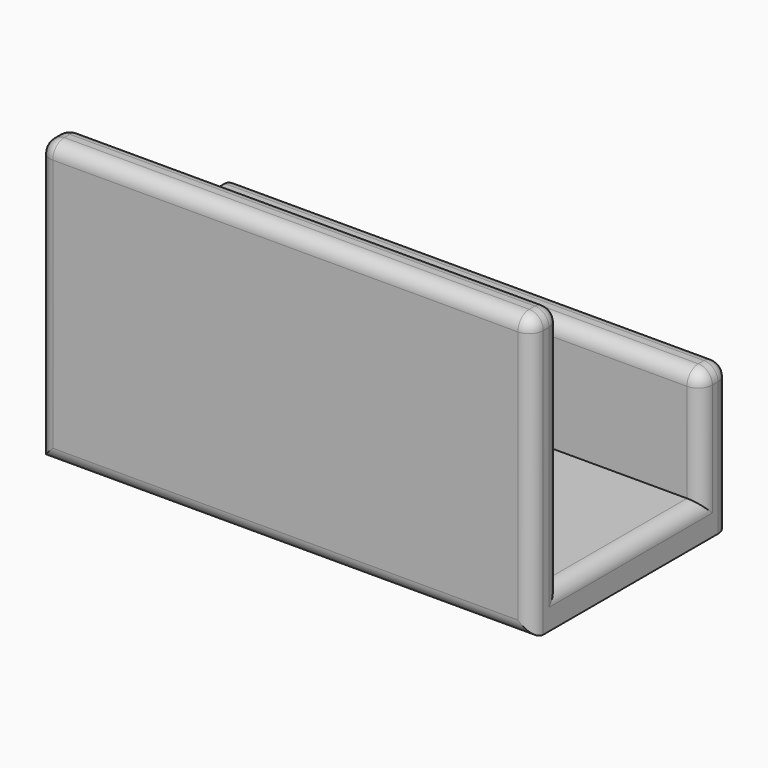
from build123d import *

# Parameters (mm, degrees)
F1_DEPTH = 88.9
F2_R     = 2.54


with BuildPart() as f1:
    # F0 (on Right) → F1 (new body)
    with BuildSketch(Plane.YZ):
        Polygon((-38.319263, 51.508548), (-44.669263, 51.508548), (-44.669263, 0.708548), (-0.219263, 0.708548), (-0.219263, 27.378548), (-6.569263, 27.378548), (-6.569263, 7.058548), (-38.319263, 7.058548), align=None)
    extrude(amount=-F1_DEPTH)

    # F2
    f2_edges = [f1.edges().sort_by_distance(p)[0] for p in [
        (-44.45, -0.219263, 27.378548),
        (-44.45, -6.569263, 27.378548),
        (-44.45, -38.319263, 51.508548),
        (-88.9, -6.569263, 17.218548),
        (-88.9, -22.444263, 7.058548),
        (-88.9, -38.319263, 29.283548),
        (-88.9, -44.669263, 26.108548),
        (-88.9, -41.494263, 51.508548),
        (-88.9, -0.219263, 14.043548),
        (0, -41.494263, 51.508548),
        (0, -38.319263, 29.283548),
        (0, -44.669263, 26.108548),
        (0, -22.444263, 7.058548),
        (0, -6.569263, 17.218548),
        (0, -3.394263, 27.378548),
        (0, -0.219263, 14.043548),
        (-44.45, -44.669263, 51.508548),
        (-44.45, -44.669263, 0.708548),
    ]]
    fillet(f2_edges, radius=F2_R)


solid = f1.part
